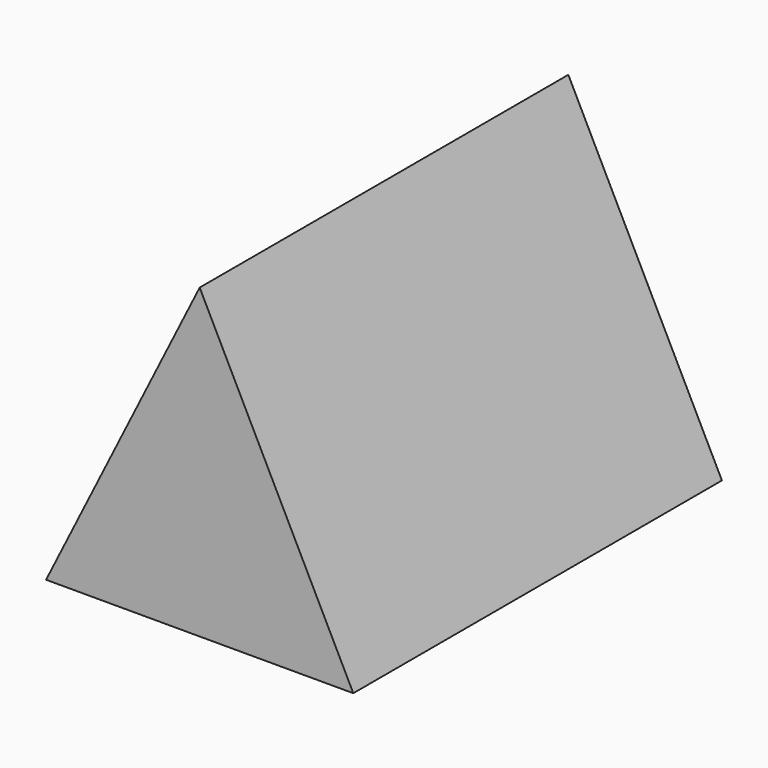
from build123d import *

# Parameters (mm, degrees)
F1_DEPTH = 150
F2_R     = 20.8605971887
F3_DEPTH = 25
F3_TAPER = -3


with BuildPart() as f1:
    # F0 (on Front) → F1 (new body)
    with BuildSketch(Plane.XZ):
        Polygon((0, 50), (-50, -50), (50, -50), align=None)
    extrude(amount=F1_DEPTH)

    # F2 (on face) → F3 (cut)
    with BuildSketch(Plane.XZ.offset(150)):
        Circle(F2_R)
    extrude(amount=F3_DEPTH, taper=F3_TAPER, mode=Mode.SUBTRACT)


solid = f1.part
